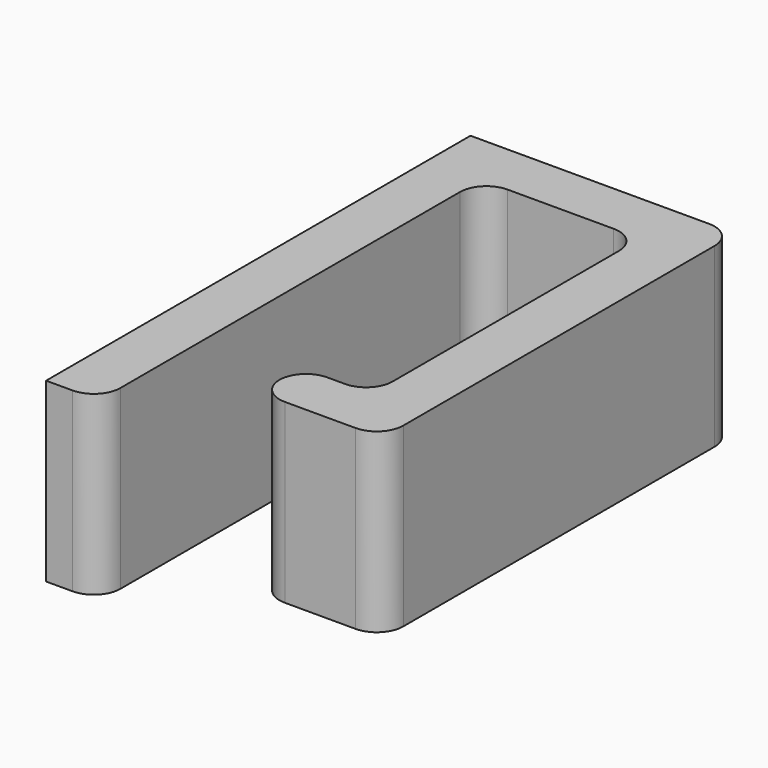
from build123d import *

# Parameters (mm, degrees)
PAD_DEPTH = 10


with BuildPart() as part:
    # Sketch → Pad (new body)
    with BuildSketch(Plane.XY):
        with BuildLine():
            Line((-3, 30), (-3, 0))
            Line((-3, 0), (-1.500009, 0))
            ThreePointArc((-1.500009, 0), (-0.439343, 0.439336), (0, 1.499999))
            Line((0, 1.499999), (0, 25.5))
            ThreePointArc((1.5, 27), (0.43934, 26.56066), (0, 25.5))
            Line((1.5, 27), (7.5, 27))
            ThreePointArc((9, 25.5), (8.56066, 26.56066), (7.5, 27))
            Line((9, 25.5), (9, 9.5))
            ThreePointArc((7.5, 8), (8.56066, 8.43934), (9, 9.5))
            Line((6.5, 8), (7.5, 8))
            ThreePointArc((6.5, 8), (5, 6.5), (6.5, 5))
            Line((6.5, 5), (10.5, 5))
            ThreePointArc((10.5, 5), (11.56066, 5.43934), (12, 6.5))
            Line((12, 6.5), (12, 28.500001))
            ThreePointArc((12, 28.500001), (11.56066, 29.560661), (10.5, 30))
            Line((-3, 30), (10.5, 30))
        make_face()
    extrude(amount=PAD_DEPTH)


solid = part.part
